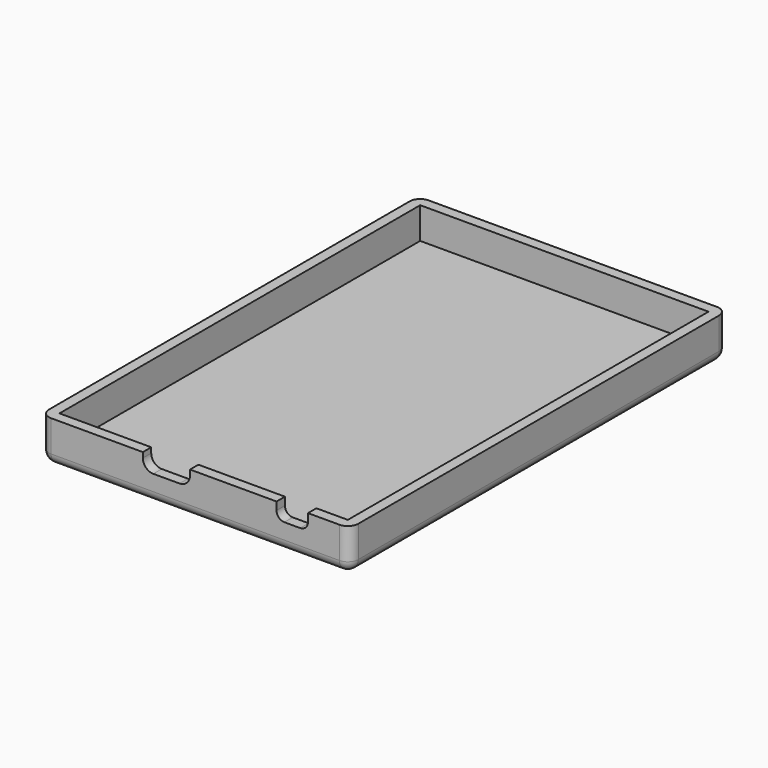
from build123d import *

# Parameters (mm, degrees)
BOX_W           = 59
BOX_H           = 90
BOX_DEPTH       = 8
SKETCH_W        = 55
SKETCH_H        = 86
POCKET_DEPTH    = 6
POCKET001_DEPTH = 2
FILLET_R        = 2
FILLET002_R     = 2


with BuildPart() as part:
    # Box → Box (join)
    with BuildSketch(Plane.XY):
        with Locations((29.5, 45)):
            Rectangle(BOX_W, BOX_H)
    extrude(amount=BOX_DEPTH)

    # Sketch (on Face6 of Box) → Pocket (cut)
    with BuildSketch(Plane.XY.offset(8)):
        with Locations((29.5, 45)):
            Rectangle(SKETCH_W, SKETCH_H)
    extrude(amount=-POCKET_DEPTH, mode=Mode.SUBTRACT)

    # Sketch001 (on Face2 of Pocket) → Pocket001 (cut)
    with BuildSketch(Plane.XZ):
        with BuildLine():
            Line((28.5, 8), (28.5, 7))
            ThreePointArc((26.5, 5), (27.914214, 5.585786), (28.5, 7))
            Line((26.5, 5), (21.5, 5))
            ThreePointArc((19.5, 7), (20.085786, 5.585786), (21.5, 5))
            Line((19.5, 7), (19.5, 8))
            Line((19.5, 8), (28.5, 8))
        make_face()
        with BuildLine():
            ThreePointArc((45, 6.5), (45.43934, 5.43934), (46.5, 5))
            Line((46.5, 5), (49.5, 5))
            ThreePointArc((49.5, 5), (50.56066, 5.43934), (51, 6.5))
            Line((51, 6.5), (51, 8))
            Line((45, 8), (51, 8))
            Line((45, 6.5), (45, 8))
        make_face()
    extrude(amount=-POCKET001_DEPTH, mode=Mode.SUBTRACT)

    # Fillet
    fillet_edges = [part.edges().sort_by_distance(p)[0] for p in [
        (59, 90, 4),
        (0, 90, 4),
        (0, 0, 4),
        (59, 0, 4),
    ]]
    fillet(fillet_edges, radius=FILLET_R)

    # Fillet002
    fillet002_edges = [part.edges().sort_by_distance(p)[0] for p in [
        (29.5, 0, 0),
    ]]
    fillet(fillet002_edges, radius=FILLET002_R)


solid = part.part
